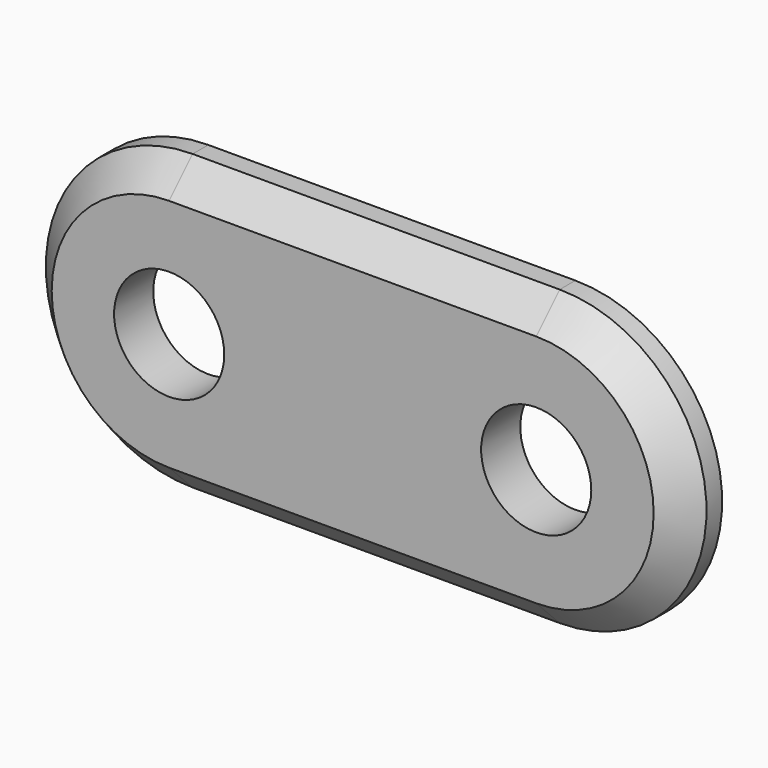
from build123d import *

# Parameters (mm, degrees)
PAD001_DEPTH    = 2
CHAMFER001_SIZE = 1.2
SKETCH005_R     = 2.25
HOLE001_DEPTH   = 25


with BuildPart() as part:
    # Sketch004 → Pad001 (new body)
    with BuildSketch(Plane.XZ):
        with BuildLine():
            ThreePointArc((0, 6), (-6, 0), (0, -6))
            Line((0, -6), (15, -6))
            ThreePointArc((15, -6), (21, 0), (15, 6))
            Line((15, 6), (0, 6))
        make_face()
    extrude(amount=PAD001_DEPTH)

    # Chamfer001
    chamfer001_edges = [part.edges().sort_by_distance(p)[0] for p in [
        (7.5, -2, 6),
    ]]
    chamfer(chamfer001_edges, length=CHAMFER001_SIZE)

    # Sketch005 → Hole001 (cut)
    with BuildSketch(Plane.XZ):
        Circle(SKETCH005_R)
        with Locations((15, 0)):
            Circle(SKETCH005_R)
    extrude(amount=HOLE001_DEPTH, mode=Mode.SUBTRACT)


with BuildPart() as part_1:
    # Body001 placement: moved
    add(part.part.moved(Location((0, -1.5, 0))))


solid = part_1.part
